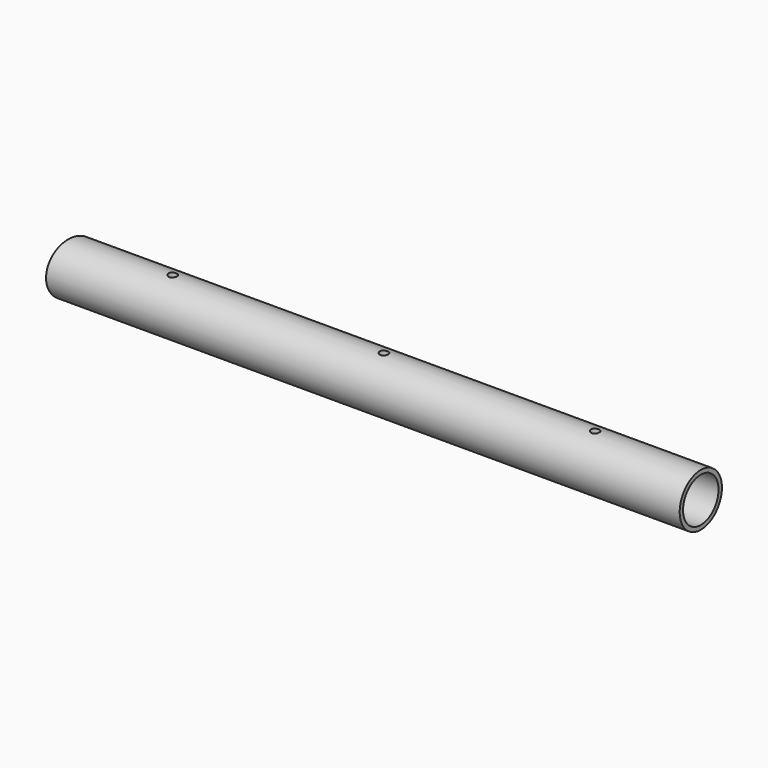
from build123d import *

# Parameters (mm, degrees)
F0_R     = 635
F0_R_2   = 533.4
F1_DEPTH = 15240
F2_R     = 101.6
F3_DEPTH = 762
F5_DEPTH = 762


with BuildPart() as f1:
    # F0 (on Right) → F1 (new body)
    with BuildSketch(Plane.YZ):
        Circle(F0_R)
        Circle(F0_R_2, mode=Mode.SUBTRACT)
    extrude(amount=F1_DEPTH)

    # F2 (on Top) → F3 (cut, symmetric)
    with BuildSketch(Plane.XY):
        with Locations((2540, 0)):
            Circle(F2_R)
        with Locations((7620, 0)):
            Circle(F2_R)
        with Locations((12700, 0)):
            Circle(F2_R)
    extrude(amount=F3_DEPTH, both=True, mode=Mode.SUBTRACT)

    # F4 (on Top) → F5 (cut, symmetric)
    with BuildSketch(Plane.XY):
        Polygon((0, 1088.580976), (0, 0), (0, -635), (303.913829, 1088.580976), align=None)
    extrude(amount=F5_DEPTH, both=True, mode=Mode.SUBTRACT)


solid = f1.part
